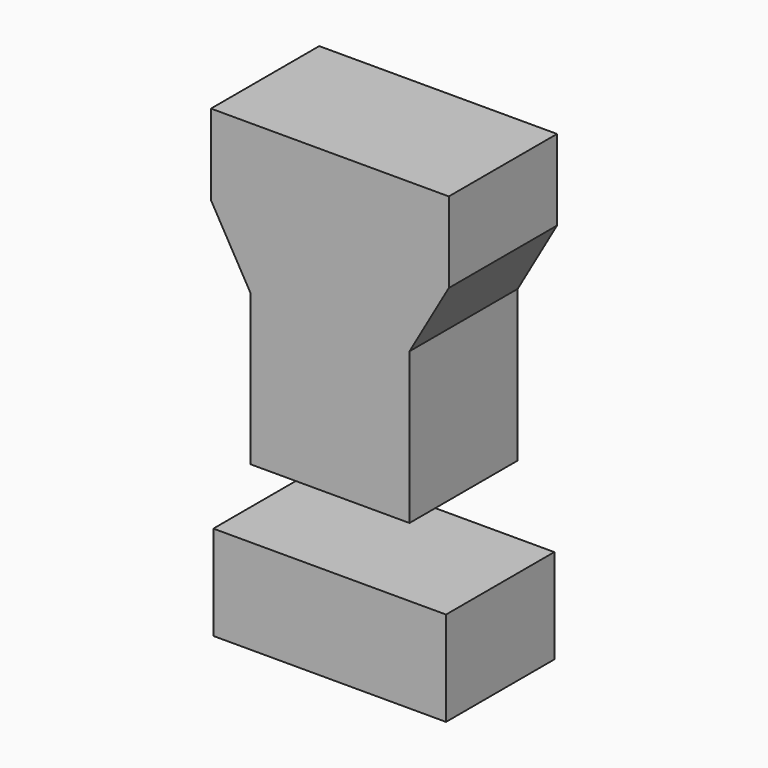
from build123d import *

# Parameters (mm, degrees)
F0_W     = 93.306572
F0_H     = 31.62935
F0_W_2   = 91.29593
F0_H_2   = 37.085884
F0_W_3   = 62.467955
F0_H_3   = 0.790732
F0_H_4   = 58.514291
F1_DEPTH = 53.086


with BuildPart() as f1:
    # F0 (on Front) → F1 (new body)
    with BuildSketch(Plane.XZ):
        Polygon((-19.372977, -7.890758), (-3.953669, 18.994184), (-97.260241, 18.994184), (-81.840932, -7.890758), align=None)
        with Locations((-50.606955, 34.808859)):
            Rectangle(F0_W, F0_H)
        with Locations((-50.681232, -112.691451)):
            Rectangle(F0_W_2, F0_H_2)
        with Locations((-50.606955, -8.286124)):
            Rectangle(F0_W_3, F0_H_3)
        with Locations((-50.606955, -37.938635)):
            Rectangle(F0_W_3, F0_H_4)
    extrude(amount=F1_DEPTH)


solid = f1.part
